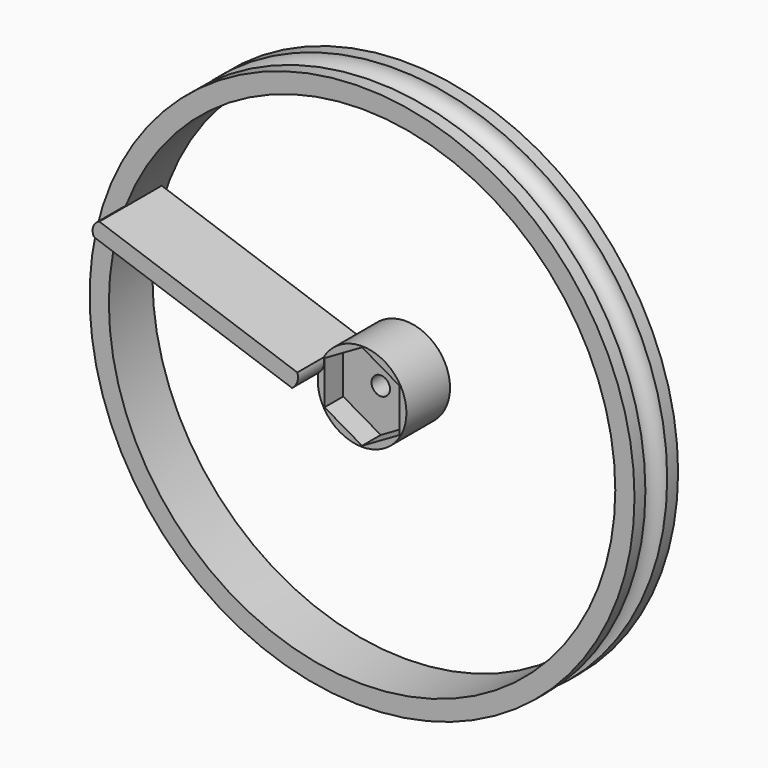
from build123d import *

# Parameters (mm, degrees)
F2_R     = 41.315497
F2_R_2   = 7.239
F3_DEPTH = 25.4
F2_R_3   = 1.5113
F4_DEPTH = 3.81
F5_DEPTH = 127
F7_DEPTH = 12.7


with BuildPart() as f1:
    # F0 (on Top) → F1 (revolve)
    with BuildSketch(Plane.XY):
        with BuildLine():
            Line((37.235339, 1.523997), (30.885339, 1.523997))
            Line((30.885339, 1.523997), (30.885339, -7.366003))
            Line((30.885339, -7.366003), (37.235339, -7.366003))
            Line((37.235339, -7.366003), (37.235339, -5.143503))
            ThreePointArc((37.235339, -5.143503), (35.012839, -2.921003), (37.235339, -0.698503))
            Line((37.235339, -0.698503), (37.235339, 1.523997))
        make_face()
        Polygon((1.421339, 1.523997), (-7.214661, 1.523997), (-7.214661, -7.366003), (1.421339, -7.366003), (30.885339, -7.366003), (30.885339, 1.523997), align=None)
    revolve(axis=Axis((-7.214661, -2.921003, 0), (0, -1, 0)))

    # F2 (on face) → F3 (cut)
    with BuildSketch(Plane.XZ.offset(7.366003)):
        with Locations((-7.214661, 0)):
            Circle(F2_R)
        with Locations((-7.214661, 0)):
            Circle(F2_R_2, mode=Mode.SUBTRACT)
    extrude(amount=-F3_DEPTH, mode=Mode.SUBTRACT)

    # F2 (on face) → F4 (cut)
    with BuildSketch(Plane.XZ.offset(7.366003)):
        Polygon((-1.093261, -3.534192), (-1.093261, 3.534192), (-7.214661, 7.068384), (-13.336061, 3.534192), (-13.336061, -3.534192), (-7.214661, -7.068384), align=None)
        with Locations((-7.214661, 0)):
            Circle(F2_R_3, mode=Mode.SUBTRACT)
    extrude(amount=-F4_DEPTH, mode=Mode.SUBTRACT)

    # F2 (on face) → F5 (cut)
    with BuildSketch(Plane.XZ.offset(7.366003)):
        with Locations((-7.214661, 0)):
            Circle(F2_R_3)
    extrude(amount=-F5_DEPTH, mode=Mode.SUBTRACT)


with BuildPart() as f7:
    # F6 (on Front) → F7 (new body)
    with BuildSketch(Plane.XZ):
        with BuildLine():
            ThreePointArc((-14.37408, 1.070443), (-13.532331, 2.184016), (-13.506631, 3.579698))
            Line((-13.506631, 3.579698), (-45.808824, 14.746556))
            ThreePointArc((-45.808824, 14.746556), (-46.822116, 13.692285), (-46.676273, 12.237301))
            Line((-46.676273, 12.237301), (-14.37408, 1.070443))
        make_face()
    extrude(amount=F7_DEPTH)


solid = Compound([f1.part, f7.part])
